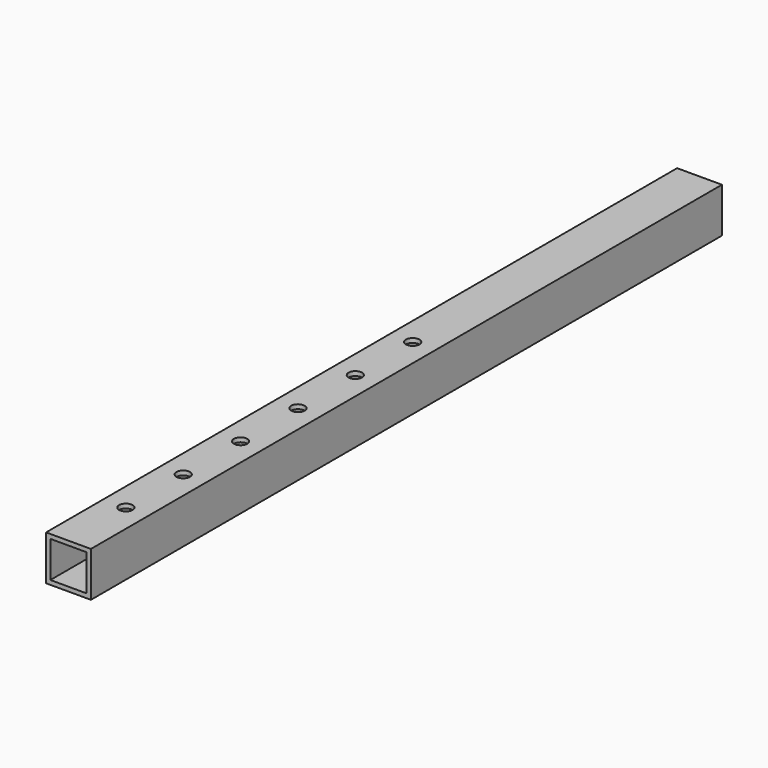
from build123d import *

# Parameters (mm, degrees)
F0_W     = 31.75
F0_H     = 31.75
F0_W_2   = 25.654
F0_H_2   = 25.654
F1_DEPTH = 558.8
F3_D     = 9.525
F3_DEPTH = 12.7


with BuildPart() as f1:
    # F0 (on Front) → F1 (new body)
    with BuildSketch(Plane.XZ):
        with Locations((-41.375973, 31.78728)):
            Rectangle(F0_W, F0_H)
        with Locations((-41.375973, 31.78728)):
            Rectangle(F0_W_2, F0_H_2, mode=Mode.SUBTRACT)
    extrude(amount=F1_DEPTH)

    # F3
    with Locations(Plane.XY.offset(47.66228)):
        with Locations((-41.375973, -508), (-41.375973, -457.2), (-41.375973, -406.4), (-41.375973, -355.6), (-41.375973, -304.8), (-41.375973, -254)):
            Hole(F3_D / 2, depth=F3_DEPTH)


solid = f1.part
